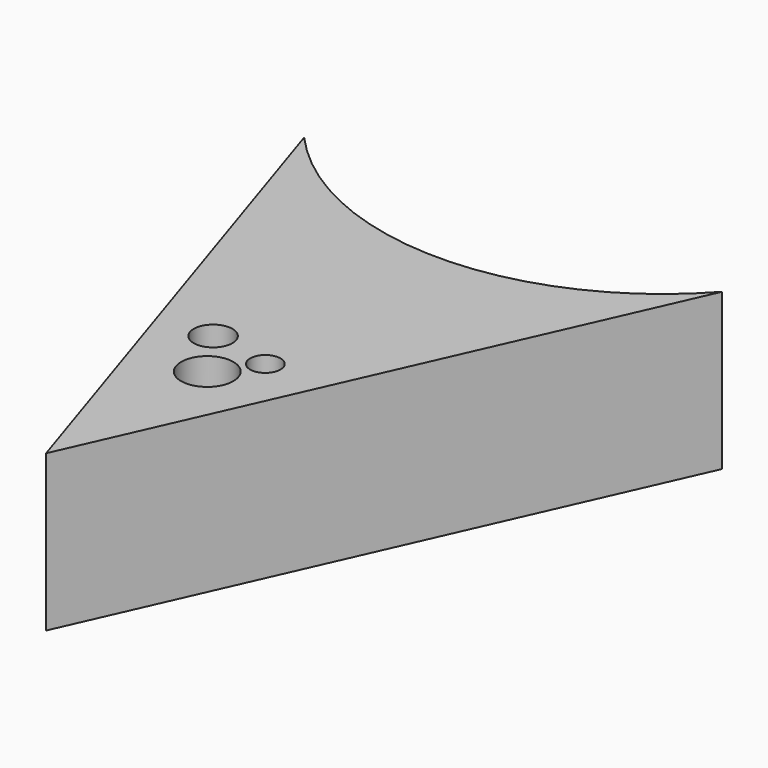
from build123d import *

# Parameters (mm, degrees)
F0_R     = 4.248171
F0_R_2   = 3.148888
F0_R_3   = 2.469941
F1_DEPTH = 25.4


with BuildPart() as f1:
    # F0 (on Top) → F1 (new body)
    with BuildSketch(Plane.XY):
        with BuildLine():
            ThreePointArc((25.431026, 34.149278), (-8.564489, 18.957498), (-42.560004, 34.149278))
            Line((-42.560004, 34.149278), (-13.871806, -54.210376))
            Line((-13.871806, -54.210376), (25.431026, 34.149278))
        make_face()
        with Locations((-11.932543, -23.845781)):
            Circle(F0_R, mode=Mode.SUBTRACT)
        with Locations((-17.458783, -15.749557)):
            Circle(F0_R_2, mode=Mode.SUBTRACT)
        with Locations((-7.469992, -17.612405)):
            Circle(F0_R_3, mode=Mode.SUBTRACT)
    extrude(amount=F1_DEPTH)


solid = f1.part
